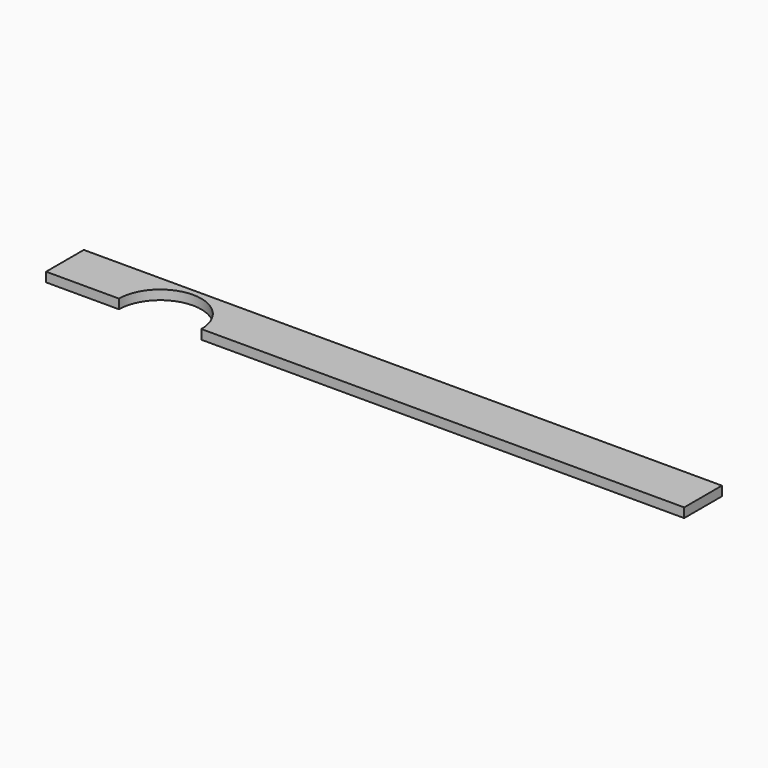
from build123d import *

# Parameters (mm, degrees)
F1_DEPTH = 17.4625


with BuildPart() as f1:
    # F0 (on Top) → F1 (new body)
    with BuildSketch(Plane.XY):
        with BuildLine():
            Line((-893.7625, 0), (0, 0))
            Line((0, 0), (0, 87.3125))
            Line((0, 87.3125), (-1181.1, 87.3125))
            Line((-1181.1, 87.3125), (-1181.1, 0))
            Line((-1181.1, 0), (-1046.1625, 0))
            ThreePointArc((-1046.1625, 0), (-969.9625, 76.2), (-893.7625, 0))
        make_face()
    extrude(amount=F1_DEPTH)


solid = f1.part
